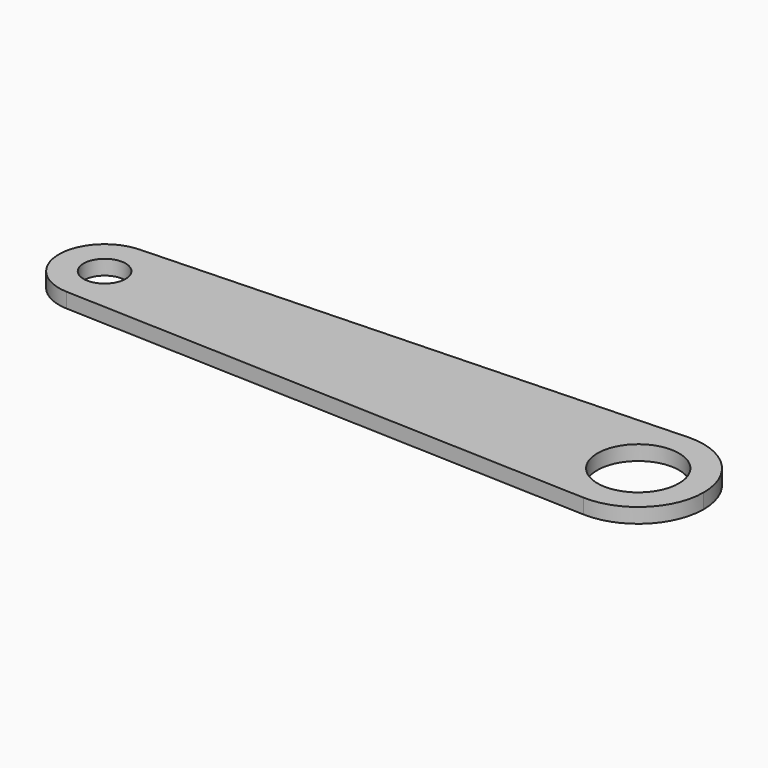
from build123d import *

# Parameters (mm, degrees)
F0_R     = 4.25
F0_R_2   = 8.25
F1_DEPTH = 3


with BuildPart() as f1:
    # F0 (on Top) → F1 (new body)
    with BuildSketch(Plane.XY):
        with BuildLine():
            ThreePointArc((-0.342593, 9.243654), (6.41847, 6.660761), (9.25, 0))
            ThreePointArc((9.25, 0), (6.41847, -6.660761), (-0.342593, -9.243654))
            Line((-0.342593, -9.243654), (107.509259, -13.240909))
            ThreePointArc((107.509259, -13.240909), (94.75, 0), (107.509259, 13.240909))
            Line((107.509259, 13.240909), (-0.342593, 9.243654))
        make_face()
        with BuildLine():
            ThreePointArc((-0.342593, -9.243654), (6.41847, -6.660761), (9.25, 0))
            ThreePointArc((9.25, 0), (6.41847, 6.660761), (-0.342593, 9.243654))
            ThreePointArc((-0.342593, 9.243654), (-9.25, 0), (-0.342593, -9.243654))
        make_face()
        Circle(F0_R, mode=Mode.SUBTRACT)
        with BuildLine():
            ThreePointArc((121.25, 0), (117.194025, 9.54109), (107.509259, 13.240909))
            ThreePointArc((107.509259, 13.240909), (94.75, 0), (107.509259, -13.240909))
            ThreePointArc((107.509259, -13.240909), (117.194025, -9.54109), (121.25, 0))
        make_face()
        with Locations((108, 0)):
            Circle(F0_R_2, mode=Mode.SUBTRACT)
    extrude(amount=F1_DEPTH)


solid = f1.part
